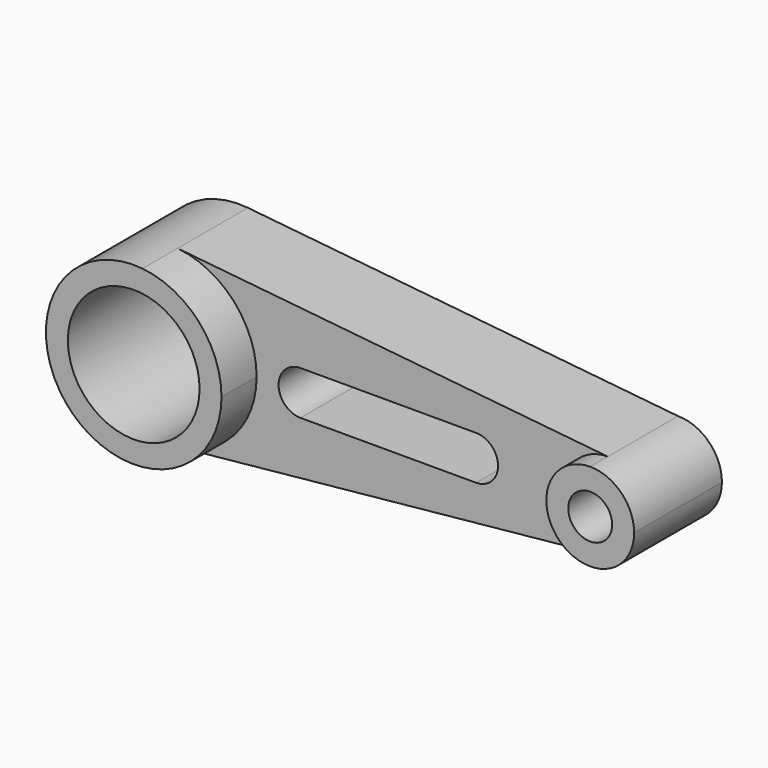
from build123d import *

# Parameters (mm, degrees)
F0_R     = 19.05
F1_DEPTH = 38.1
F2_DEPTH = 25.4
F0_R_2   = 6.35
F3_DEPTH = 31.75


with BuildPart() as f1:
    # F0 (on Front) → F1 (new body)
    with BuildSketch(Plane.XZ):
        with BuildLine():
            ThreePointArc((2.540001, -25.272681), (18.837144, -17.038838), (25.4, 0))
            ThreePointArc((25.4, 0), (18.841479, 17.034044), (2.552862, 25.271385))
            ThreePointArc((2.552862, 25.271385), (-25.399999, 0.006463), (2.540001, -25.272681))
        make_face()
        Circle(F0_R, mode=Mode.SUBTRACT)
    extrude(amount=F1_DEPTH)

    # F0 (on Front) → F2 (join)
    with BuildSketch(Plane.XZ):
        with BuildLine():
            ThreePointArc((2.552862, 25.271385), (18.841479, 17.034044), (25.4, 0))
            ThreePointArc((25.4, 0), (18.837144, -17.038838), (2.540001, -25.272681))
            Line((2.540001, -25.272681), (128.27, -12.63634))
            ThreePointArc((128.27, -12.63634), (114.315925, -0.635797), (127, 12.7))
            Line((127, 12.7), (2.552862, 25.271385))
        make_face()
        with BuildLine():
            ThreePointArc((38.1, -6.35), (31.75, 0), (38.1, 6.35))
            Line((38.1, 6.35), (88.9, 6.35))
            ThreePointArc((88.9, 6.35), (95.25, 0), (88.9, -6.35))
            Line((88.9, -6.35), (38.1, -6.35))
        make_face(mode=Mode.SUBTRACT)
    extrude(amount=F2_DEPTH)

    # F0 (on Front) → F3 (join)
    with BuildSketch(Plane.XZ):
        with BuildLine():
            ThreePointArc((139.7, 0), (135.980256, 8.980256), (127, 12.7))
            ThreePointArc((127, 12.7), (114.315925, -0.635797), (128.27, -12.63634))
            ThreePointArc((128.27, -12.63634), (136.418572, -8.519419), (139.7, 0))
        make_face()
        with Locations((127, 0)):
            Circle(F0_R_2, mode=Mode.SUBTRACT)
    extrude(amount=F3_DEPTH)


solid = f1.part
